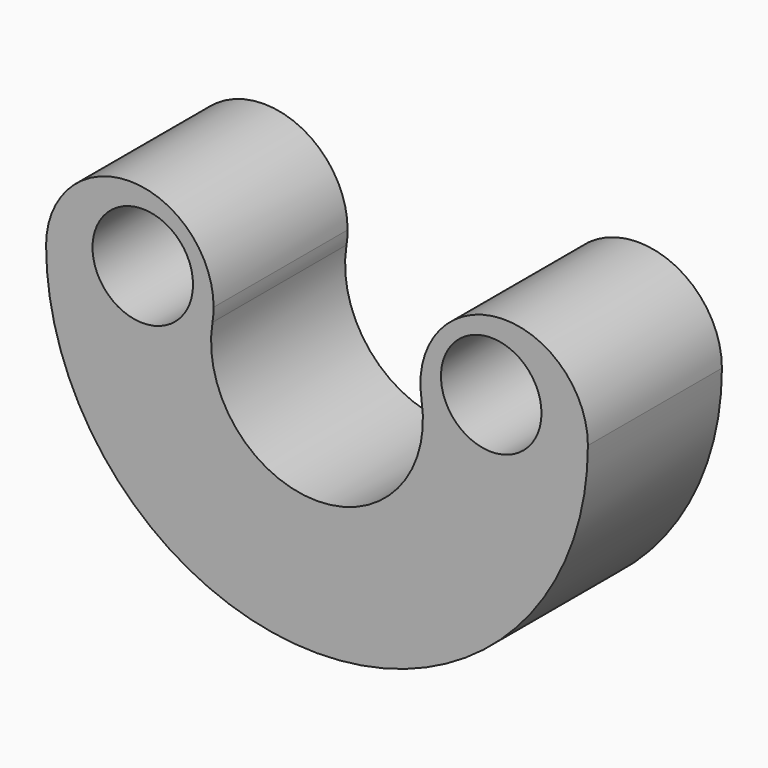
from build123d import *

# Parameters (mm, degrees)
F1_DEPTH = 5
F2_R     = 1.5
F3_DEPTH = 25


with BuildPart() as f1:
    # F0 (on Front) → F1 (new body)
    with BuildSketch(Plane.XZ):
        with BuildLine():
            ThreePointArc((3.119385, 7.677828), (5.790566, 5.594257), (8.085862, 8.085862))
            ThreePointArc((8.085862, 8.085862), (5.381157, 10.577467), (3.119385, 7.677828))
        make_face()
        with BuildLine():
            ThreePointArc((0, 0), (5.717568, 2.368294), (8.085862, 8.085862))
            ThreePointArc((8.085862, 8.085862), (5.790566, 5.594257), (3.119385, 7.677828))
            ThreePointArc((3.119385, 7.677828), (0, 4), (-3.119385, 7.677828))
            ThreePointArc((-3.119385, 7.677828), (-5.790566, 5.594257), (-8.085862, 8.085862))
            ThreePointArc((-8.085862, 8.085862), (-5.717568, 2.368294), (0, 0))
        make_face()
        with BuildLine():
            ThreePointArc((-8.085862, 8.085862), (-5.790566, 5.594257), (-3.119385, 7.677828))
            ThreePointArc((-3.119385, 7.677828), (-3.094257, 7.881157), (-3.085862, 8.085862))
            ThreePointArc((-3.085862, 8.085862), (-5.585862, 10.585862), (-8.085862, 8.085862))
        make_face()
    extrude(amount=F1_DEPTH)

    # F2 (on face) → F3 (cut)
    with BuildSketch(Plane.XZ.offset(5)):
        with Locations((-5.2, 8.481313)):
            Circle(F2_R)
        with Locations((5.2, 8.481313)):
            Circle(F2_R)
    extrude(amount=-F3_DEPTH, mode=Mode.SUBTRACT)


solid = f1.part
